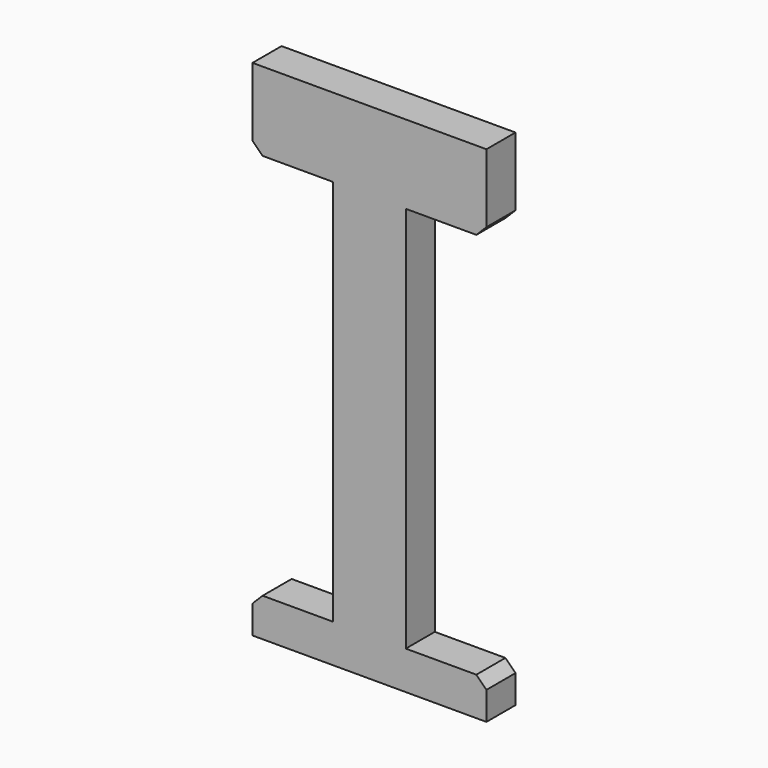
from build123d import *

# Parameters (mm, degrees)
F1_DEPTH = 18
F2_SIZE  = 5


with BuildPart() as f1:
    # F0 (on Front) → F1 (new body)
    with BuildSketch(Plane.XZ):
        Polygon((0, 19), (0, 0), (116, 0), (116, 19), (76, 19), (76, 211), (116, 211), (116, 250), (0, 250), (0, 211), (40, 211), (40, 19), align=None)
    extrude(amount=F1_DEPTH)

    # F2
    f2_edges = [f1.edges().sort_by_distance(p)[0] for p in [
        (0, -9, 211),
        (0, -9, 19),
        (116, -9, 19),
        (116, -9, 211),
    ]]
    chamfer(f2_edges, length=F2_SIZE)


solid = f1.part
